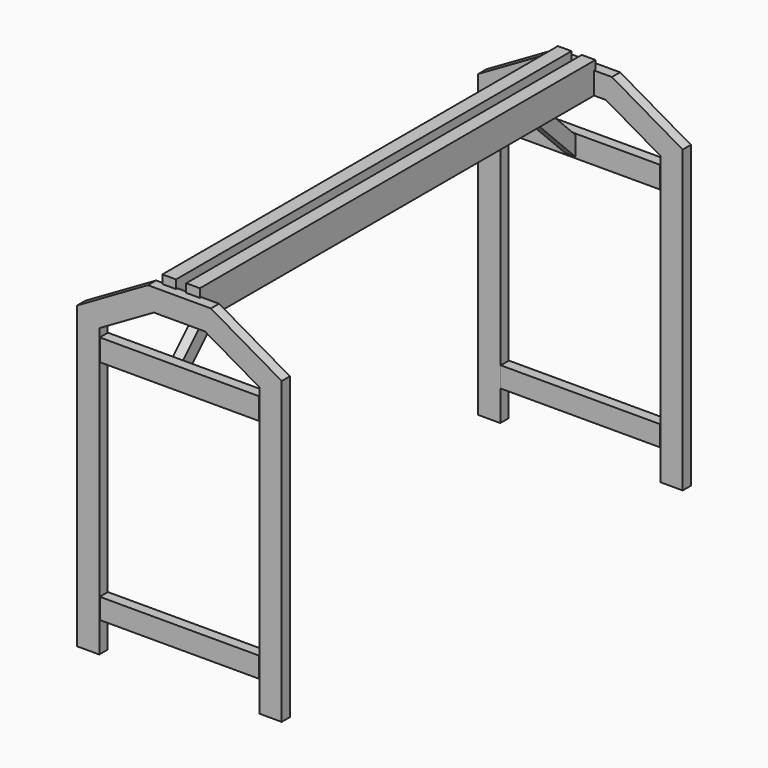
from build123d import *

# Parameters (mm, degrees)
F1_DEPTH  = 60
F4_DEPTH  = 60
F6_START  = 50
F5_W      = 80
F5_H      = 180
F6_DEPTH  = 2900
F7_W      = 934.5689117908
F7_H      = 127.8042793274
F8_DEPTH  = 60
F7_H_2    = 119.8165267706
F9_W      = 934.5689117908
F9_H      = 127.8042793274
F10_DEPTH = 60
F9_H_2    = 119.8165267706
F12_DEPTH = 30


with BuildPart() as f1:
    # F0 (on Front) → F1 (new body)
    with BuildSketch(Plane.XZ):
        Polygon((0, 2000), (-184.833395016, 2000), (-600, 1760.303448854), (-600, 0), (-470, 0), (-470, 1685.2479138593), (-150, 1870), (0, 1870), (150, 1870), (470, 1685.2479138593), (470, 0), (600, 0), (600, 1760.303448854), (184.833395016, 2000), align=None)
    extrude(amount=F1_DEPTH)


with BuildPart() as f4:
    # F3 (on offset) → F4 (new body)
    with BuildSketch(Plane.XZ.offset(3000)):
        Polygon((-470, 1685.2479138593), (-150, 1870), (150, 1870), (470, 1685.2479138593), (470, 0), (600, 0), (600, 1760.303448854), (184.833395016, 2000), (-184.833395016, 2000), (-600, 1760.303448854), (-600, 0), (-470, 0), align=None)
    extrude(amount=-F4_DEPTH)


with BuildPart() as f6:
    # F5 (on Front) → F6 (new body)
    with BuildSketch(Plane.XZ.offset(F6_START)):
        with Locations((-100, 1960)):
            Rectangle(F5_W, F5_H)
    extrude(amount=F6_DEPTH)


with BuildPart() as f6b:
    # F5 (on Front) → F6, piece 2 (new body)
    with BuildSketch(Plane.XZ.offset(F6_START)):
        with Locations((40, 1960)):
            Rectangle(F5_W, F5_H)
    extrude(amount=F6_DEPTH)


with BuildPart() as f8:
    # F7 (on offset) → F8 (new body)
    with BuildSketch(Plane.XZ.offset(3000)):
        with Locations((1.49012e-05, 1574.6009349823)):
            Rectangle(F7_W, F7_H)
    extrude(amount=-F8_DEPTH)


with BuildPart() as f8b:
    # F7 (on offset) → F8, piece 2 (new body)
    with BuildSketch(Plane.XZ.offset(3000)):
        with Locations((1.49012e-05, 239.3123582006)):
            Rectangle(F7_W, F7_H_2)
    extrude(amount=-F8_DEPTH)


with BuildPart() as f10:
    # F9 (on Front) → F10 (new body)
    with BuildSketch(Plane.XZ):
        with Locations((1.49012e-05, 1574.6009349823)):
            Rectangle(F9_W, F9_H)
    extrude(amount=F10_DEPTH)


with BuildPart() as f10b:
    # F9 (on Front) → F10, piece 2 (new body)
    with BuildSketch(Plane.XZ):
        with Locations((1.49012e-05, 239.3123582006)):
            Rectangle(F9_W, F9_H_2)
    extrude(amount=F10_DEPTH)


with BuildPart() as f12:
    # F11 (on face) → F12 (new body, symmetric)
    with BuildSketch(Plane.YZ.offset(-60)):
        Polygon((-2583.7536616078, 1987.9906039485), (-2940, 1631.7442655563), (-2940, 1518.6071805665), (-2470.616576618, 1987.9906039485), align=None)
    extrude(amount=F12_DEPTH, both=True)


with BuildPart() as f12b:
    # F11 (on face) → F12, piece 2 (new body, symmetric)
    with BuildSketch(Plane.YZ.offset(-60)):
        Polygon((-416.2463383922, 1987.9906039485), (-529.383423382, 1987.9906039485), (-60, 1518.6071805665), (-60, 1631.7442655563), align=None)
    extrude(amount=F12_DEPTH, both=True)


solid = Compound([f1.part, f4.part, f6.part, f6b.part, f8.part, f8b.part, f10.part, f10b.part, f12.part, f12b.part])
